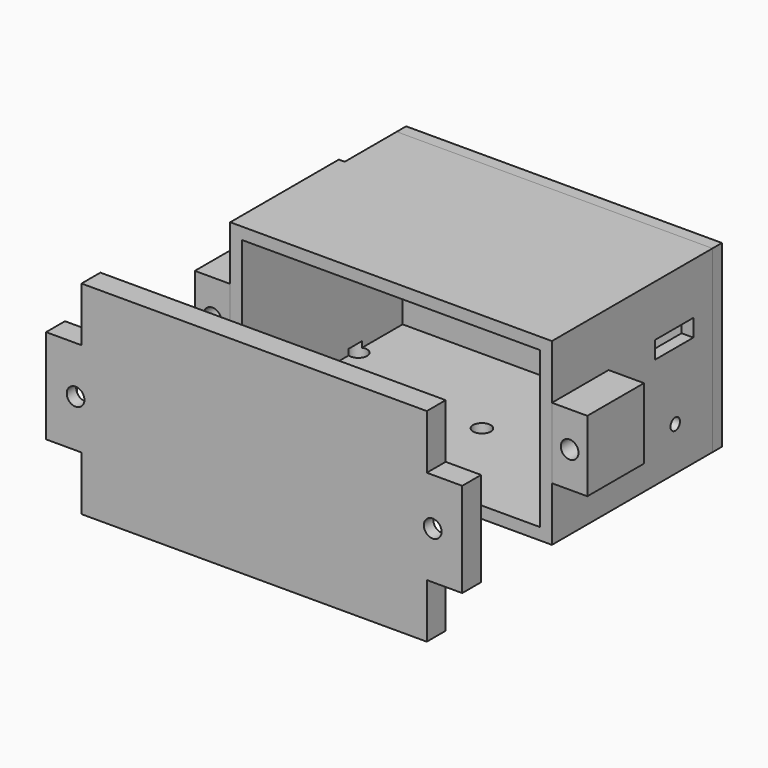
from build123d import *

# Parameters (mm, degrees)
F0_W      = 54.5
F0_H      = 30.4
F0_W_2    = 50.5
F0_H_2    = 26.4
F1_DEPTH  = 34
F2_W      = 54.5
F2_H      = 30.4
F3_DEPTH  = 2
F4_W      = 12
F4_H      = 12
F5_DEPTH  = 6
F6_R      = 1.5
F7_DEPTH  = 15
F8_R      = 1.5
F9_DEPTH  = 5
F13_DEPTH = 2
F14_T     = 2
F15_R     = 1.5
F16_DEPTH = 3
F17_R     = 1.5
F18_DEPTH = 3
F19_W     = 13
F19_H     = 19
F20_DEPTH = 1
F22_W     = 8.1
F22_H     = 2.95
F23_DEPTH = 5
F24_R     = 1
F25_DEPTH = 5
F26_W     = 8
F26_H     = 3
F27_DEPTH = 5


with BuildPart() as f1:
    # F0 (on Front) → F1 (new body)
    with BuildSketch(Plane.XZ):
        Rectangle(F0_W, F0_H)
        Rectangle(F0_W_2, F0_H_2, mode=Mode.SUBTRACT)
    extrude(amount=F1_DEPTH)

    # F17 (on face) → F18 (cut)
    with BuildSketch(Plane(origin=(0, 0, -15.2), x_dir=(1, 0, 0), z_dir=(0, 0, -1))):
        with Locations((16.1, 16.7)):
            Circle(F17_R)
        with Locations((1.55, 16.7)):
            Circle(F17_R)
        with Locations((-24.75, 10)):
            Circle(F17_R)
    extrude(amount=-F18_DEPTH, mode=Mode.SUBTRACT)


with BuildPart() as f3:
    # F2 (on face) → F3 (new body)
    with BuildSketch(Plane(origin=(0, 0, 0), x_dir=(-1, 0, 0), z_dir=(0, 1, 0))):
        Rectangle(F2_W, F2_H)
    extrude(amount=F3_DEPTH)


with BuildPart() as f5:
    # F4 (on face) → F5 (new body)
    with BuildSketch(Plane(origin=(-27.25, 0, 0), x_dir=(0, -1, 0), z_dir=(-1, 0, 0))):
        with Locations((28, 0)):
            Rectangle(F4_W, F4_H)
    extrude(amount=F5_DEPTH)

    # F6 (on face) → F7 (cut)
    with BuildSketch(Plane.XZ.offset(34)):
        with Locations((-30.25, 0)):
            Circle(F6_R)
    extrude(amount=-F7_DEPTH, mode=Mode.SUBTRACT)

    # F8 (on face) → F9 (cut)
    with BuildSketch(Plane(origin=(0, -22, 0), x_dir=(-1, 0, 0), z_dir=(0, 1, 0))):
        Polygon((27.5, -1.5877132403), (30.25, -3.1754264805), (33, -1.5877132403), (33, 1.5877132403), (30.25, 3.1754264805), (27.5, 1.5877132403), align=None)
        with Locations((30.25, 0)):
            Circle(F8_R, mode=Mode.SUBTRACT)
    extrude(amount=-F9_DEPTH, mode=Mode.SUBTRACT)


with BuildPart() as f10_1:
    # F10: instance of F5
    add(f5.part.mirror(Plane.YZ))


with BuildPart() as f13:
    # F12 (on offset) → F13 (new body)
    with BuildSketch(Plane.XZ.offset(59)):
        Polygon((-27.25, -15.2), (27.25, -15.2), (27.25, -6), (33.25, -6), (33.25, 6), (27.25, 6), (27.25, 15.2), (-27.25, 15.2), (-27.25, 6), (-33.25, 6), (-33.25, -6), (-27.25, -6), align=None)
    extrude(amount=F13_DEPTH)

    # F14
    f14_openings = [f13.faces().sort_by_distance(p)[0] for p in [
        (0, -59, 0),
    ]]
    offset(amount=F14_T, openings=f14_openings, kind=Kind.INTERSECTION)

    # F15 (on face) → F16 (cut)
    with BuildSketch(Plane.XZ.offset(63)):
        with Locations((-30.25, 0)):
            Circle(F15_R)
        with Locations((30.25, 0)):
            Circle(F15_R)
    extrude(amount=-F16_DEPTH, mode=Mode.SUBTRACT)


with BuildPart() as f20_tool:
    # F19 (on face) → F20 (new body)
    with BuildSketch(Plane(origin=(-27.25, 0, 0), x_dir=(0, -1, 0), z_dir=(-1, 0, 0))):
        with Locations((4.5, 5.7)):
            Rectangle(F19_W, F19_H)
    extrude(amount=-F20_DEPTH)


with BuildPart() as f1_1:
    add(f1.part)

    # F20: cut by f20_tool
    add(f20_tool.part, mode=Mode.SUBTRACT)

    # F22 (on face) → F23 (cut)
    with BuildSketch(Plane.YZ.offset(27.25)):
        with Locations((-8.1001479298, 5.0171468783)):
            Rectangle(F22_W, F22_H)
    extrude(amount=-F23_DEPTH, mode=Mode.SUBTRACT)

    # F24 (on face) → F25 (cut)
    with BuildSketch(Plane.YZ.offset(27.25)):
        with Locations((-7.8892959282, -7.7980095521)):
            Circle(F24_R)
    extrude(amount=-F25_DEPTH, mode=Mode.SUBTRACT)

    # F26 (on face) → F27 (cut)
    with BuildSketch(Plane(origin=(-26.25, 0, 0), x_dir=(0, -1, 0), z_dir=(-1, 0, 0))):
        with Locations((5.5, 0.7)):
            Rectangle(F26_W, F26_H)
    extrude(amount=-F27_DEPTH, mode=Mode.SUBTRACT)


with BuildPart() as f3_1:
    add(f3.part)

    # F20: cut by f20_tool
    add(f20_tool.part, mode=Mode.SUBTRACT)


solid = Compound([f5.part, f10_1.part, f13.part, f1_1.part, f3_1.part])
